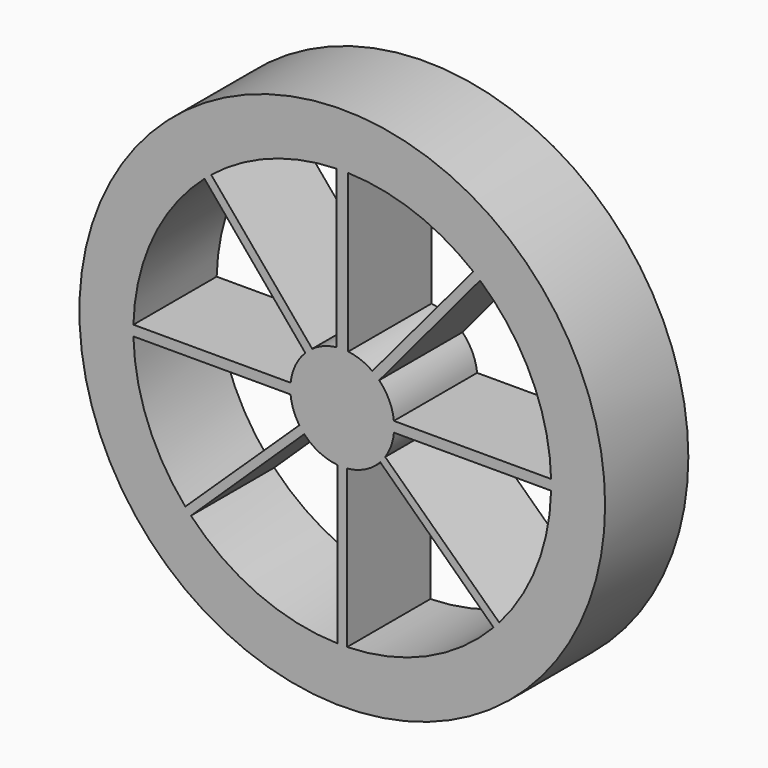
from build123d import *

# Parameters (mm, degrees)
F0_R     = 64.182262
F1_DEPTH = 25.4


with BuildPart() as f1:
    # F0 (on Front) → F1 (new body)
    with BuildSketch(Plane.XZ):
        Circle(F0_R)
        with BuildLine():
            ThreePointArc((50.991562, 1.324171), (51.004455, 0.662141), (51.008752, 0))
            ThreePointArc((51.008752, 0), (51.005261, -0.59681), (50.994787, -1.193538))
            ThreePointArc((50.994787, -1.193538), (47.519124, -18.542537), (38.325809, -33.660439))
            ThreePointArc((38.325809, -33.660439), (37.642941, -34.422402), (36.944928, -35.170515))
            ThreePointArc((36.944928, -35.170515), (20.644951, -46.644172), (1.192291, -50.994816))
            ThreePointArc((1.192291, -50.994816), (0, -51.008752), (-1.192291, -50.994816))
            ThreePointArc((-1.192291, -50.994816), (-20.644951, -46.644172), (-36.944928, -35.170515))
            ThreePointArc((-36.944928, -35.170515), (-37.642941, -34.422402), (-38.325809, -33.660439))
            ThreePointArc((-38.325809, -33.660439), (-47.519124, -18.542537), (-50.994787, -1.193538))
            ThreePointArc((-50.994787, -1.193538), (-51.00871, 0.065336), (-50.991562, 1.324171))
            ThreePointArc((-50.991562, 1.324171), (-46.18751, 21.647326), (-33.641859, 38.34212))
            ThreePointArc((-33.641859, 38.34212), (-32.830051, 39.039474), (-32.003792, 39.719644))
            ThreePointArc((-32.003792, 39.719644), (-17.653123, 47.856662), (-1.455973, 50.987969))
            ThreePointArc((-1.455973, 50.987969), (0, 51.008752), (1.455973, 50.987969))
            ThreePointArc((1.455973, 50.987969), (17.653123, 47.856662), (32.003792, 39.719644))
            ThreePointArc((32.003792, 39.719644), (32.830051, 39.039474), (33.641859, 38.34212))
            ThreePointArc((33.641859, 38.34212), (46.18751, 21.647326), (50.991562, 1.324171))
        make_face(mode=Mode.SUBTRACT)
        with BuildLine():
            Line((-7.340542, 10.332622), (-32.003792, 39.719644))
            ThreePointArc((-32.003792, 39.719644), (-32.830051, 39.039474), (-33.641859, 38.34212))
            Line((-33.641859, 38.34212), (-9.026158, 8.89804))
            ThreePointArc((-9.026158, 8.89804), (-8.214726, 9.652197), (-7.340542, 10.332622))
        make_face()
        with BuildLine():
            Line((1.455973, 12.590742), (1.455973, 50.987969))
            ThreePointArc((1.455973, 50.987969), (0, 51.008752), (-1.455973, 50.987969))
            Line((-1.455973, 50.987969), (-1.455973, 12.590742))
            ThreePointArc((-1.455973, 12.590742), (0, 12.674646), (1.455973, 12.590742))
        make_face()
        with BuildLine():
            Line((9.026158, 8.89804), (33.641859, 38.34212))
            ThreePointArc((33.641859, 38.34212), (32.830051, 39.039474), (32.003792, 39.719644))
            Line((32.003792, 39.719644), (7.340542, 10.332622))
            ThreePointArc((7.340542, 10.332622), (8.214726, 9.652197), (9.026158, 8.89804))
        make_face()
        with BuildLine():
            ThreePointArc((12.674646, 0), (12.657294, 0.662993), (12.605285, 1.324171))
            ThreePointArc((12.605285, 1.324171), (11.459525, 5.415343), (9.026158, 8.89804))
            ThreePointArc((9.026158, 8.89804), (8.214726, 9.652197), (7.340542, 10.332622))
            ThreePointArc((7.340542, 10.332622), (4.540864, 11.833309), (1.455973, 12.590742))
            ThreePointArc((1.455973, 12.590742), (0, 12.674646), (-1.455973, 12.590742))
            ThreePointArc((-1.455973, 12.590742), (-4.540864, 11.833309), (-7.340542, 10.332622))
            ThreePointArc((-7.340542, 10.332622), (-8.214726, 9.652197), (-9.026158, 8.89804))
            ThreePointArc((-9.026158, 8.89804), (-11.459525, 5.415343), (-12.605285, 1.324171))
            ThreePointArc((-12.605285, 1.324171), (-12.674476, 0.065641), (-12.618324, -1.193538))
            ThreePointArc((-12.618324, -1.193538), (-11.925863, -4.291904), (-10.485143, -7.120984))
            ThreePointArc((-10.485143, -7.120984), (-9.909698, -7.902185), (-9.276181, -8.637077))
            ThreePointArc((-9.276181, -8.637077), (-5.600004, -11.370426), (-1.192291, -12.618442))
            ThreePointArc((-1.192291, -12.618442), (0, -12.674646), (1.192291, -12.618442))
            ThreePointArc((1.192291, -12.618442), (5.600004, -11.370426), (9.276181, -8.637077))
            ThreePointArc((9.276181, -8.637077), (9.909698, -7.902185), (10.485143, -7.120984))
            ThreePointArc((10.485143, -7.120984), (11.925863, -4.291904), (12.618324, -1.193538))
            ThreePointArc((12.618324, -1.193538), (12.660557, -0.597433), (12.674646, 0))
        make_face()
        with BuildLine():
            ThreePointArc((50.994787, -1.193538), (51.005261, -0.59681), (51.008752, 0))
            ThreePointArc((51.008752, 0), (51.004455, 0.662141), (50.991562, 1.324171))
            Line((50.991562, 1.324171), (12.605285, 1.324171))
            ThreePointArc((12.605285, 1.324171), (12.657294, 0.662993), (12.674646, 0))
            ThreePointArc((12.674646, 0), (12.660557, -0.597433), (12.618324, -1.193538))
            Line((12.618324, -1.193538), (50.994787, -1.193538))
        make_face()
        with BuildLine():
            ThreePointArc((36.944928, -35.170515), (37.642941, -34.422402), (38.325809, -33.660439))
            Line((38.325809, -33.660439), (10.485143, -7.120984))
            ThreePointArc((10.485143, -7.120984), (9.909698, -7.902185), (9.276181, -8.637077))
            Line((9.276181, -8.637077), (36.944928, -35.170515))
        make_face()
        with BuildLine():
            ThreePointArc((-1.192291, -50.994816), (0, -51.008752), (1.192291, -50.994816))
            Line((1.192291, -50.994816), (1.192291, -12.618442))
            ThreePointArc((1.192291, -12.618442), (0, -12.674646), (-1.192291, -12.618442))
            Line((-1.192291, -12.618442), (-1.192291, -50.994816))
        make_face()
        with BuildLine():
            ThreePointArc((-38.325809, -33.660439), (-37.642941, -34.422402), (-36.944928, -35.170515))
            Line((-36.944928, -35.170515), (-9.276181, -8.637077))
            ThreePointArc((-9.276181, -8.637077), (-9.909698, -7.902185), (-10.485143, -7.120984))
            Line((-10.485143, -7.120984), (-38.325809, -33.660439))
        make_face()
        with BuildLine():
            Line((-12.605285, 1.324171), (-50.991562, 1.324171))
            ThreePointArc((-50.991562, 1.324171), (-51.00871, 0.065336), (-50.994787, -1.193538))
            Line((-50.994787, -1.193538), (-12.618324, -1.193538))
            ThreePointArc((-12.618324, -1.193538), (-12.674476, 0.065641), (-12.605285, 1.324171))
        make_face()
    extrude(amount=F1_DEPTH)


solid = f1.part
